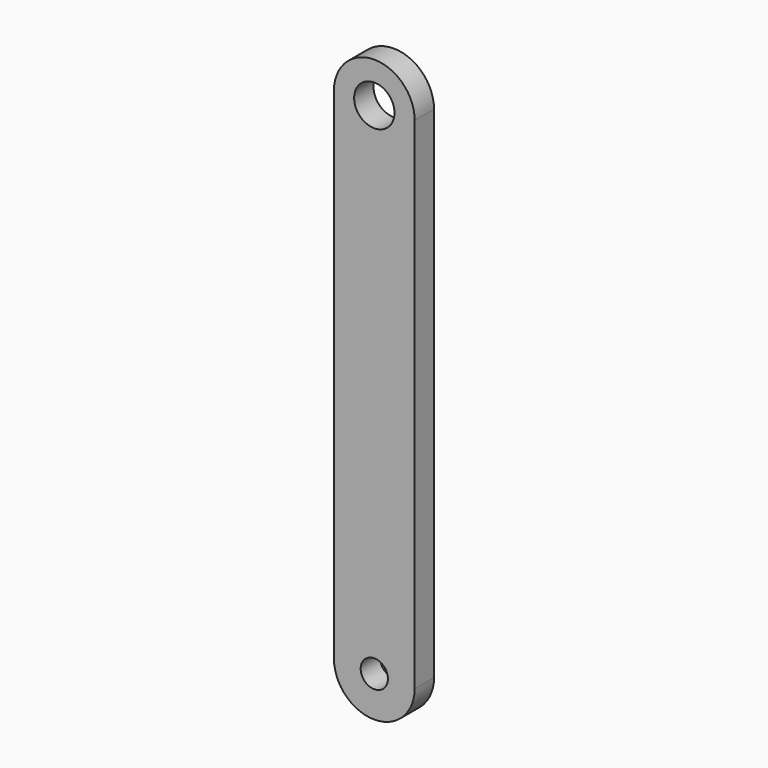
from build123d import *

# Parameters (mm, degrees)
F0_R     = 1.6891
F0_R_2   = 2.5
F1_DEPTH = 3


with BuildPart() as f1:
    # F0 (on Front) → F1 (new body)
    with BuildSketch(Plane.XZ):
        with BuildLine():
            ThreePointArc((-5, -31), (0, -36), (5, -31))
            Line((5, -31), (5, 31))
            ThreePointArc((5, 31), (0, 36), (-5, 31))
            Line((-5, 31), (-5, -31))
        make_face()
        with Locations((0, -31)):
            Circle(F0_R, mode=Mode.SUBTRACT)
        with Locations((0, 31)):
            Circle(F0_R_2, mode=Mode.SUBTRACT)
    extrude(amount=F1_DEPTH)


solid = f1.part
